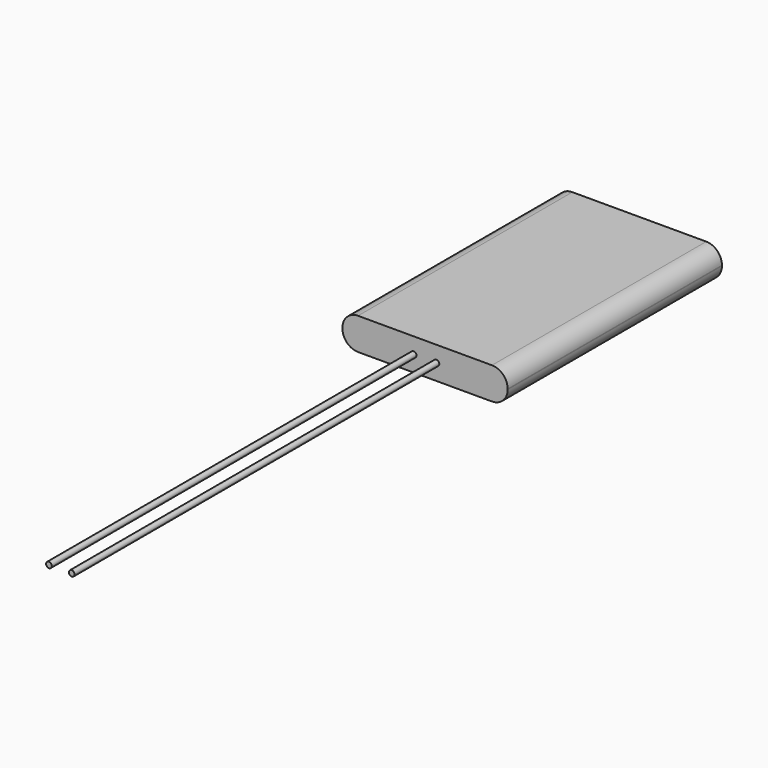
from build123d import *

# Parameters (mm, degrees)
F0_W     = 36.83
F0_H     = 7.112
F1_DEPTH = 59.69
F2_R     = 0.635
F3_DEPTH = 101.6
F4_DEPTH = 101.6
F5_R     = 3.4925


with BuildPart() as f1:
    # F0 (on Front) → F1 (new body)
    with BuildSketch(Plane.XZ):
        Rectangle(F0_W, F0_H)
    extrude(amount=-F1_DEPTH)

    # F5
    f5_edges = [f1.edges().sort_by_distance(p)[0] for p in [
        (-18.415, 29.845, 3.556),
        (-18.415, 29.845, -3.556),
        (18.415, 29.845, 3.556),
        (18.415, 29.845, -3.556),
    ]]
    fillet(f5_edges, radius=F5_R)


with BuildPart() as f3:
    # F2 (on face) → F3 (new body)
    with BuildSketch(Plane.XZ):
        with Locations((2.54, 0)):
            Circle(F2_R)
    extrude(amount=F3_DEPTH)


with BuildPart() as f4:
    # F2 (on face) → F4 (new body)
    with BuildSketch(Plane.XZ):
        with Locations((-2.54, 0)):
            Circle(F2_R)
    extrude(amount=F4_DEPTH)


solid = Compound([f1.part, f3.part, f4.part])
